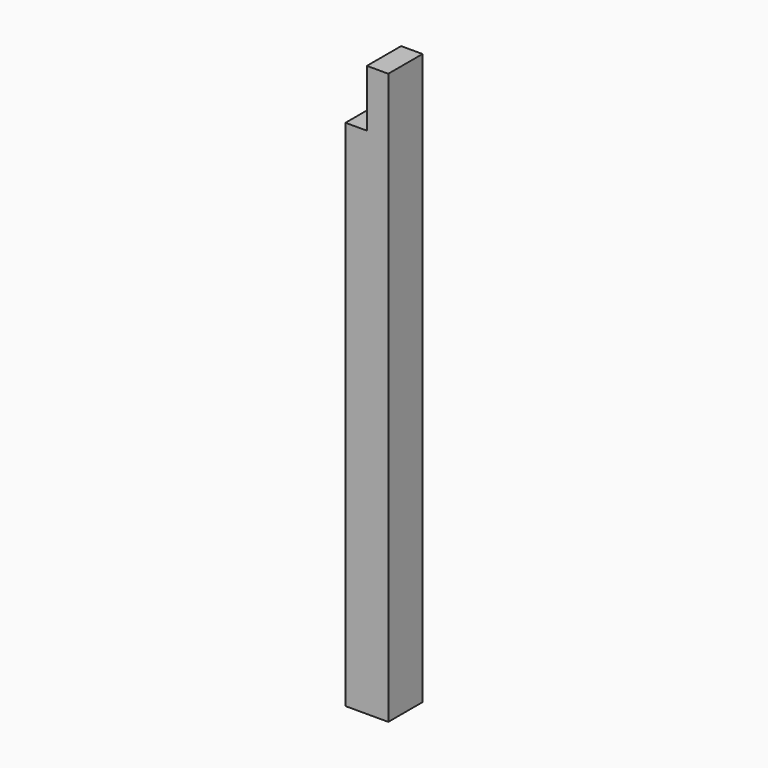
from build123d import *

# Parameters (mm, degrees)
F1_W     = 120
F1_H     = 120
F2_DEPTH = 1600
F3_W     = 60
F3_H     = 160
F4_DEPTH = 120


with BuildPart() as f2:
    # F1 (on Top) → F2 (new body)
    with BuildSketch(Plane.XY):
        Rectangle(F1_W, F1_H)
    extrude(amount=F2_DEPTH)

    # F3 (on face) → F4 (cut, through all)
    with BuildSketch(Plane.XZ.offset(60)):
        with Locations((-30, 1520)):
            Rectangle(F3_W, F3_H)
    extrude(amount=-F4_DEPTH, mode=Mode.SUBTRACT)


solid = f2.part
